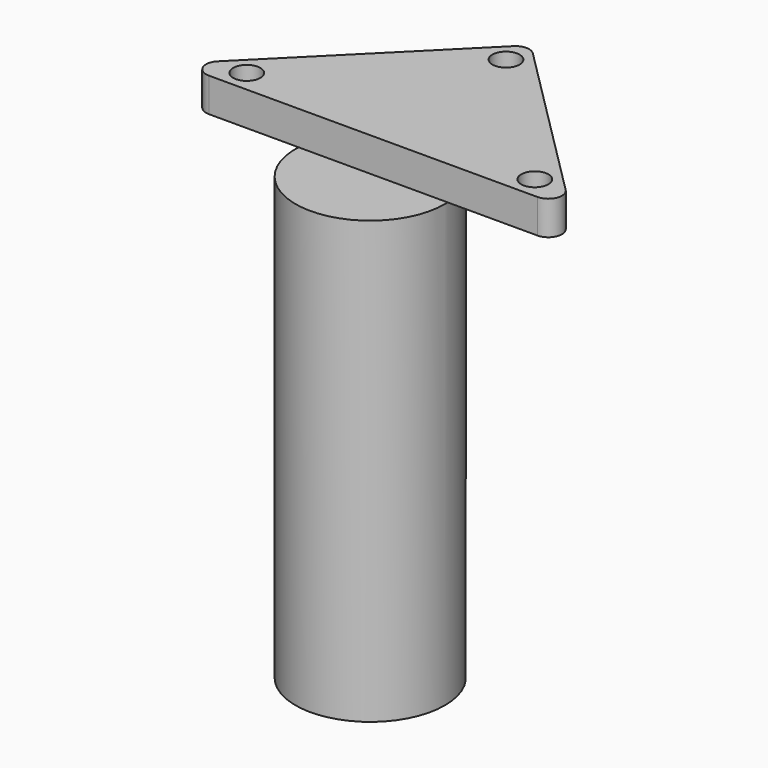
from build123d import *

# Parameters (mm, degrees)
SKETCH_R     = 2
PAD_DEPTH    = 5
SKETCH001_R  = 11
PAD001_DEPTH = 65


with BuildPart() as part:
    # Sketch → Pad (new body)
    with BuildSketch(Plane.XY):
        with BuildLine():
            Line((1.414214, 0), (49.84062, 0))
            ThreePointArc((49.84062, 0), (51.688379, 1.234633), (51.254834, 3.414214))
            Line((51.254834, 3.414214), (27.041631, 27.627417))
            ThreePointArc((27.041631, 27.627417), (25.627417, 28.213203), (24.213203, 27.627417))
            Line((0, 3.414214), (24.213203, 27.627417))
            ThreePointArc((0, 3.414214), (-0.433546, 1.234633), (1.414214, 0))
        make_face()
        with Locations((4.414214, 3.25)):
            Circle(SKETCH_R, mode=Mode.SUBTRACT)
        with Locations((46.84062, 3.25)):
            Circle(SKETCH_R, mode=Mode.SUBTRACT)
        with Locations((25.627417, 24.463203)):
            Circle(SKETCH_R, mode=Mode.SUBTRACT)
    extrude(amount=PAD_DEPTH)

    # Sketch001 (on Face10 of Pad) → Pad001 (join)
    with BuildSketch(Plane(origin=(0, 0, 0), x_dir=(1, 0, 0), z_dir=(0, 0, -1))):
        with Locations((25.627417, 0.536797)):
            Circle(SKETCH001_R)
    extrude(amount=PAD001_DEPTH)


solid = part.part
